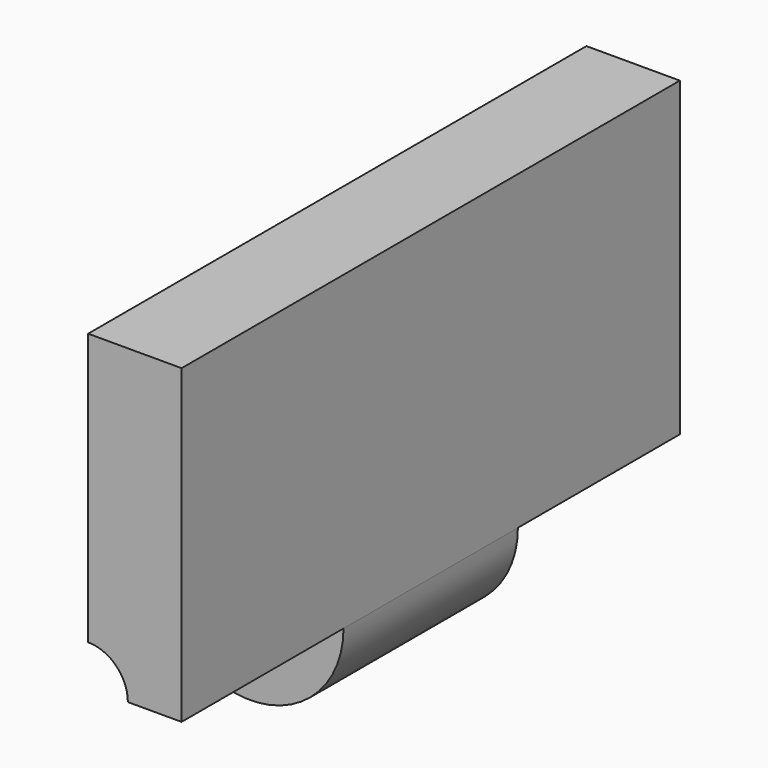
from build123d import *

# Parameters (mm, degrees)
F0_W     = 3.81
F0_H     = 12.7
F1_DEPTH = 12.7
F3_DEPTH = 4.445
F4_W     = 3.81
F4_H     = 12.7
F5_DEPTH = 12.7
F6_R     = 1.61925
F7_DEPTH = 25.4


with BuildPart() as f1:
    # F0 (on Front) → F1 (new body)
    with BuildSketch(Plane.XZ):
        Rectangle(F0_W, F0_H)
    extrude(amount=F1_DEPTH)

    # F2 (on face) → F3 (join, symmetric)
    with BuildSketch(Plane(origin=(0, 0, 0), x_dir=(-1, 0, 0), z_dir=(0, 1, 0))):
        Polygon((-1.905, 6.35), (-1.905, -6.35), (1.905, -6.35), (1.905, -2.54), (1.905, 6.35), align=None)
        with BuildLine():
            Line((1.905, -6.35), (-1.905, -6.35))
            ThreePointArc((-1.905, -6.35), (4.5990768363, -9.0440768363), (1.905, -2.54))
            Line((1.905, -2.54), (1.905, -6.35))
        make_face()
    extrude(amount=F3_DEPTH, both=True)

    # F4 (on face) → F5 (join)
    with BuildSketch(Plane(origin=(0, 0, 0), x_dir=(-1, 0, 0), z_dir=(0, 1, 0))):
        Rectangle(F4_W, F4_H)
    extrude(amount=F5_DEPTH)

    # F6 (on face) → F7 (cut)
    with BuildSketch(Plane(origin=(0, 12.7, 0), x_dir=(-1, 0, 0), z_dir=(0, 1, 0))):
        with Locations((1.905, -6.35)):
            Circle(F6_R)
    extrude(amount=-F7_DEPTH, mode=Mode.SUBTRACT)


solid = f1.part
